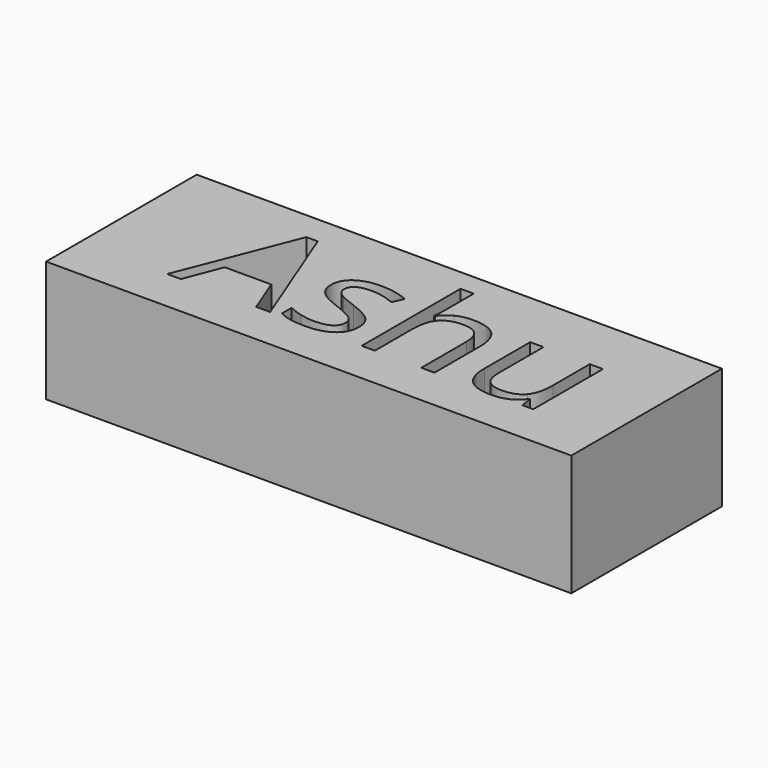
from build123d import *

# Parameters (mm, degrees)
F0_W     = 108.2608737051
F0_H     = 38.8043485582
F1_DEPTH = 25


with BuildPart() as f1:
    # F0 (on Top) → F1 (new body)
    with BuildSketch(Plane.XY):
        with Locations((0.1630429178, -7.6630432159)):
            Rectangle(F0_W, F0_H)
        with BuildLine():
            add(Edge.make_bspline(
                [(-1.4969709304, -10.405910604), (-0.3763300382, -11.5841545327), (-0.3763300382, -13.3698486647)],
                knots=[0, 0, 0, 1, 1, 1], degree=2))
            add(Edge.make_bspline(
                [(-0.3763300382, -13.3698486647), (-0.3763300382, -15.8729624333), (-2.2405737654, -17.2318704311)],
                knots=[0, 0, 0, 1, 1, 1], degree=2))
            add(Edge.make_bspline(
                [(-2.2405737654, -17.2318704311), (-4.1048174927, -18.5907784289), (-7.4772134487, -18.5907784289)],
                knots=[0, 0, 0, 1, 1, 1], degree=2))
            add(Edge.make_bspline(
                [(-7.4772134487, -18.5907784289), (-11.043365073, -18.5907784289), (-13.0385247923, -17.4596642573)],
                knots=[0, 0, 0, 1, 1, 1], degree=2))
            Line((-13.0385247923, -17.4596642573), (-13.0385247923, -14.9408405697))
            add(Edge.make_bspline(
                [(-13.0385247923, -14.9408405697), (-11.7450747906, -15.5954205301), (-10.2657240801, -15.9698402674)],
                knots=[0, 0, 0, 1, 1, 1], degree=2))
            add(Edge.make_bspline(
                [(-10.2657240801, -15.9698402674), (-8.7863733695, -16.3442600048), (-7.4091371328, -16.3442600048)],
                knots=[0, 0, 0, 1, 1, 1], degree=2))
            add(Edge.make_bspline(
                [(-7.4091371328, -16.3442600048), (-5.2830614214, -16.3442600048), (-4.1388556506, -15.6661151658)],
                knots=[0, 0, 0, 1, 1, 1], degree=2))
            add(Edge.make_bspline(
                [(-4.1388556506, -15.6661151658), (-2.9946498798, -14.9879703268), (-2.9946498798, -13.5950241711)],
                knots=[0, 0, 0, 1, 1, 1], degree=2))
            add(Edge.make_bspline(
                [(-2.9946498798, -13.5950241711), (-2.9946498798, -12.5476962344), (-3.900588545, -11.8040933994)],
                knots=[0, 0, 0, 1, 1, 1], degree=2))
            add(Edge.make_bspline(
                [(-3.900588545, -11.8040933994), (-4.8065272102, -11.0604905644), (-7.4457936106, -10.0445824658)],
                knots=[0, 0, 0, 1, 1, 1], degree=2))
            add(Edge.make_bspline(
                [(-7.4457936106, -10.0445824658), (-9.9489073792, -9.1124606022), (-11.0040902754, -8.4159875243)],
                knots=[0, 0, 0, 1, 1, 1], degree=2))
            add(Edge.make_bspline(
                [(-11.0040902754, -8.4159875243), (-12.0592731716, -7.7195144465), (-12.5750821804, -6.8371406598)],
                knots=[0, 0, 0, 1, 1, 1], degree=2))
            add(Edge.make_bspline(
                [(-12.5750821804, -6.8371406598), (-13.0908911892, -5.9547668732), (-13.0908911892, -4.7293931873)],
                knots=[0, 0, 0, 1, 1, 1], degree=2))
            add(Edge.make_bspline(
                [(-13.0908911892, -4.7293931873), (-13.0908911892, -2.53524116), (-11.3051970572, -1.2653560368)],
                knots=[0, 0, 0, 1, 1, 1], degree=2))
            add(Edge.make_bspline(
                [(-11.3051970572, -1.2653560368), (-9.5195029252, 0.0045290864), (-6.414175593, 0.0045290864)],
                knots=[0, 0, 0, 1, 1, 1], degree=2))
            add(Edge.make_bspline(
                [(-6.414175593, 0.0045290864), (-3.5183138482, 0.0045290864), (-0.7481314557, -1.1737148424)],
                knots=[0, 0, 0, 1, 1, 1], degree=2))
            Line((-0.7481314557, -1.1737148424), (-1.7169097971, -3.3835767887))
            add(Edge.make_bspline(
                [(-1.7169097971, -3.3835767887), (-4.413779234, -2.2734091759), (-6.6079312613, -2.2734091759)],
                knots=[0, 0, 0, 1, 1, 1], degree=2))
            add(Edge.make_bspline(
                [(-6.6079312613, -2.2734091759), (-8.5402513044, -2.2734091759), (-9.522121245, -2.8782410593)],
                knots=[0, 0, 0, 1, 1, 1], degree=2))
            add(Edge.make_bspline(
                [(-9.522121245, -2.8782410593), (-10.5039911856, -3.4830729427), (-10.5039911856, -4.5461107984)],
                knots=[0, 0, 0, 1, 1, 1], degree=2))
            add(Edge.make_bspline(
                [(-10.5039911856, -4.5461107984), (-10.5039911856, -5.2687670747), (-10.134808088, -5.7741028041)],
                knots=[0, 0, 0, 1, 1, 1], degree=2))
            add(Edge.make_bspline(
                [(-10.134808088, -5.7741028041), (-9.7656249903, -6.2794385336), (-8.9487091997, -6.7376445058)],
                knots=[0, 0, 0, 1, 1, 1], degree=2))
            add(Edge.make_bspline(
                [(-8.9487091997, -6.7376445058), (-8.1317934091, -7.1958504781), (-5.8067253898, -8.0651326656)],
                knots=[0, 0, 0, 1, 1, 1], degree=2))
            add(Edge.make_bspline(
                [(-5.8067253898, -8.0651326656), (-2.6176118226, -9.2276666752), (-1.4969709304, -10.405910604)],
                knots=[0, 0, 0, 1, 1, 1], degree=2))
        make_face(mode=Mode.SUBTRACT)
        with BuildLine():
            Line((24.419158862, -0.3253792137), (27.1683946958, -0.3253792137))
            Line((27.1683946958, -0.3253792137), (27.1683946958, -11.9611925899))
            add(Edge.make_bspline(
                [(27.1683946958, -11.9611925899), (27.1683946958, -14.1553446172), (28.1659745554, -15.2340923919)],
                knots=[0, 0, 0, 1, 1, 1], degree=2))
            add(Edge.make_bspline(
                [(28.1659745554, -15.2340923919), (29.1635544151, -16.3128401667), (31.2896301265, -16.3128401667)],
                knots=[0, 0, 0, 1, 1, 1], degree=2))
            add(Edge.make_bspline(
                [(31.2896301265, -16.3128401667), (34.1069422761, -16.3128401667), (35.4056289175, -14.7758864197)],
                knots=[0, 0, 0, 1, 1, 1], degree=2))
            add(Edge.make_bspline(
                [(35.4056289175, -14.7758864197), (36.704315559, -13.2389326726), (36.704315559, -9.7513306436)],
                knots=[0, 0, 0, 1, 1, 1], degree=2))
            Line((36.704315559, -9.7513306436), (36.704315559, -0.3253792137))
            Line((36.704315559, -0.3253792137), (39.4221315546, -0.3253792137))
            Line((39.4221315546, -0.3253792137), (39.4221315546, -18.2608701289))
            Line((39.4221315546, -18.2608701289), (37.1808497702, -18.2608701289))
            Line((37.1808497702, -18.2608701289), (36.7881017939, -15.8572525143))
            Line((36.7881017939, -15.8572525143), (36.6414758828, -15.8572525143))
            add(Edge.make_bspline(
                [(36.6414758828, -15.8572525143), (35.8088501731, -17.1821223541), (34.3268811428, -17.8864503915)],
                knots=[0, 0, 0, 1, 1, 1], degree=2))
            add(Edge.make_bspline(
                [(34.3268811428, -17.8864503915), (32.8449121124, -18.5907784289), (30.9440119074, -18.5907784289)],
                knots=[0, 0, 0, 1, 1, 1], degree=2))
            add(Edge.make_bspline(
                [(30.9440119074, -18.5907784289), (27.6711121054, -18.5907784289), (26.0451354837, -17.035496443)],
                knots=[0, 0, 0, 1, 1, 1], degree=2))
            add(Edge.make_bspline(
                [(26.0451354837, -17.035496443), (24.419158862, -15.4802144571), (24.419158862, -12.0606887439)],
                knots=[0, 0, 0, 1, 1, 1], degree=2))
            Line((24.419158862, -12.0606887439), (24.419158862, -0.3253792137))
        make_face(mode=Mode.SUBTRACT)
        Polygon((-14.8242189243, -18.2608701289), (-17.7043707501, -18.2608701289), (-20.6840187299, -10.6520326691), (-30.27230599, -10.6520326691), (-33.215297492, -18.2608701289), (-36.0326096416, -18.2608701289), (-26.5752383736, 5.7648327379), (-24.2344604352, 5.7648327379), align=None, mode=Mode.SUBTRACT)
        with BuildLine():
            Line((19.0358932677, -18.2608701289), (16.318077272, -18.2608701289))
            Line((16.318077272, -18.2608701289), (16.318077272, -6.6564765908))
            add(Edge.make_bspline(
                [(16.318077272, -6.6564765908), (16.318077272, -4.4675612032), (15.3204974124, -3.3861951086)],
                knots=[0, 0, 0, 1, 1, 1], degree=2))
            add(Edge.make_bspline(
                [(15.3204974124, -3.3861951086), (14.3229175527, -2.304829014), (12.1916052016, -2.304829014)],
                knots=[0, 0, 0, 1, 1, 1], degree=2))
            add(Edge.make_bspline(
                [(12.1916052016, -2.304829014), (9.3638197727, -2.304829014), (8.0625148114, -3.8444010808)],
                knots=[0, 0, 0, 1, 1, 1], degree=2))
            add(Edge.make_bspline(
                [(8.0625148114, -3.8444010808), (6.7612098501, -5.3839731477), (6.7612098501, -8.8820484561)],
                knots=[0, 0, 0, 1, 1, 1], degree=2))
            Line((6.7612098501, -8.8820484561), (6.7612098501, -18.2608701289))
            Line((6.7612098501, -18.2608701289), (4.0433938545, -18.2608701289))
            Line((4.0433938545, -18.2608701289), (4.0433938545, 7.2049086508))
            Line((4.0433938545, 7.2049086508), (6.7612098501, 7.2049086508))
            Line((6.7612098501, 7.2049086508), (6.7612098501, -0.5034249629))
            add(Edge.make_bspline(
                [(6.7612098501, -0.5034249629), (6.7612098501, -1.8963711187), (6.630293858, -2.8127830632)],
                knots=[0, 0, 0, 1, 1, 1], degree=2))
            Line((6.630293858, -2.8127830632), (6.7926296882, -2.8127830632))
            add(Edge.make_bspline(
                [(6.7926296882, -2.8127830632), (7.5938355597, -1.5193330615), (9.0758045901, -0.7757302265)],
                knots=[0, 0, 0, 1, 1, 1], degree=2))
            add(Edge.make_bspline(
                [(9.0758045901, -0.7757302265), (10.5577736204, -0.0321273914), (12.4534371858, -0.0321273914)],
                knots=[0, 0, 0, 1, 1, 1], degree=2))
            add(Edge.make_bspline(
                [(12.4534371858, -0.0321273914), (15.7420469069, -0.0321273914), (17.3889700873, -1.5952643369)],
                knots=[0, 0, 0, 1, 1, 1], degree=2))
            add(Edge.make_bspline(
                [(17.3889700873, -1.5952643369), (19.0358932677, -3.1584012823), (19.0358932677, -6.5622170765)],
                knots=[0, 0, 0, 1, 1, 1], degree=2))
            Line((19.0358932677, -6.5622170765), (19.0358932677, -18.2608701289))
        make_face(mode=Mode.SUBTRACT)
    extrude(amount=F1_DEPTH)


solid = f1.part
